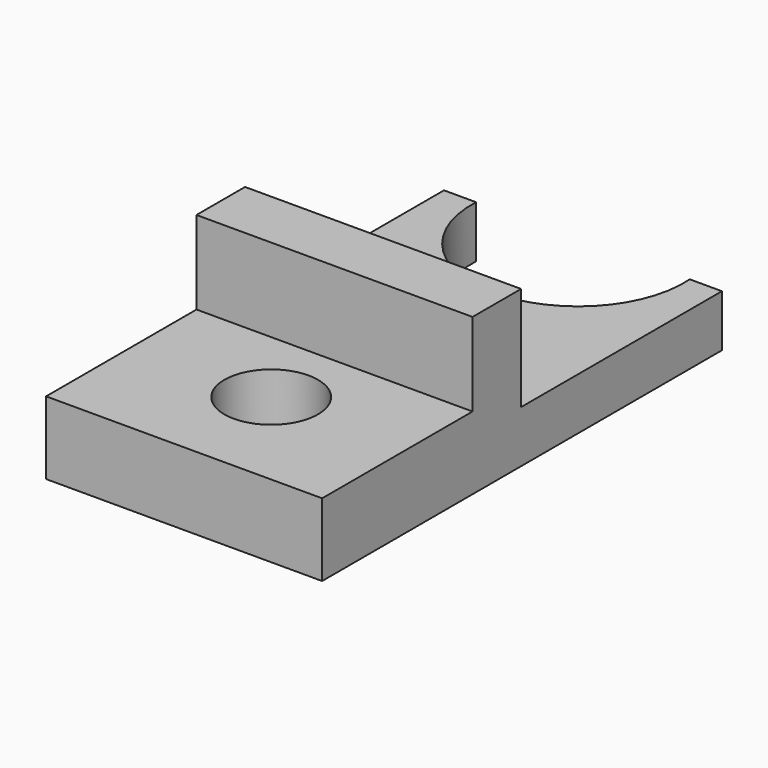
from build123d import *

# Parameters (mm, degrees)
F1_DEPTH = 12.7
F2_W     = 67.376848
F2_H     = 14.811288
F3_DEPTH = 25.4
F4_W     = 67.376848
F4_H     = 45.885952
F5_DEPTH = 5.08
F7_D     = 22.86


with BuildPart() as f1:
    # F0 (on Top) → F1 (new body)
    with BuildSketch(Plane.XY):
        with BuildLine():
            Line((-33.688422, 65.489128), (-33.688422, -55.905353))
            Line((-33.688422, -55.905353), (33.688426, -55.905353))
            Line((33.688426, -55.905353), (33.688426, 66.069968))
            Line((33.688426, 66.069968), (25.84715, 66.069968))
            ThreePointArc((25.84715, 66.069968), (0.308083, 38.360301), (-25.847152, 65.489128))
            Line((-25.847152, 65.489128), (-33.688422, 65.489128))
        make_face()
    extrude(amount=F1_DEPTH)

    # F2 (on face) → F3 (join)
    with BuildSketch(Plane.XY.offset(12.7)):
        with Locations((2e-06, -2.613757)):
            Rectangle(F2_W, F2_H)
    extrude(amount=F3_DEPTH)

    # F4 (on face) → F5 (join)
    with BuildSketch(Plane.XY.offset(12.7)):
        with Locations((2e-06, -32.962377)):
            Rectangle(F4_W, F4_H)
    extrude(amount=F5_DEPTH)

    # F7 (through all)
    with Locations(Plane.XY.offset(17.78)):
        with Locations((0, -29.339861)):
            Hole(F7_D / 2)


solid = f1.part
